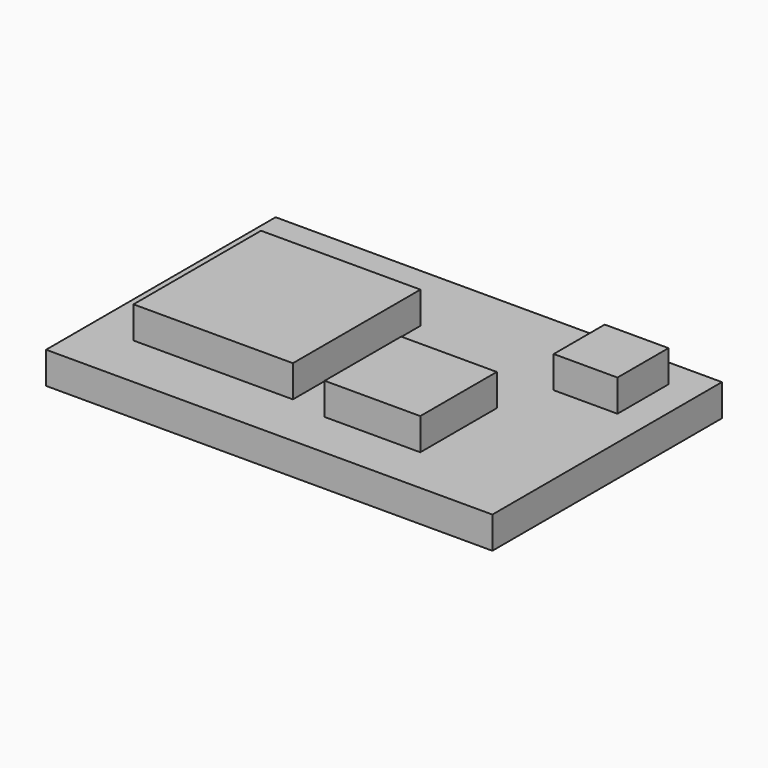
from build123d import *

# Parameters (mm, degrees)
F0_W     = 35.56
F0_H     = 22.86
F1_DEPTH = 2.54
F2_W     = 5.08
F2_H     = 5.08
F2_W_2   = 7.62
F2_H_2   = 7.62
F2_W_3   = 12.7
F2_H_3   = 12.7
F3_DEPTH = 2.54


with BuildPart() as f1:
    # F0 (on Top) → F1 (new body)
    with BuildSketch(Plane.XY):
        with Locations((13.568437, -8.192946)):
            Rectangle(F0_W, F0_H)
    extrude(amount=F1_DEPTH)


with BuildPart() as f3:
    # F2 (on face) → F3 (new body)
    with BuildSketch(Plane.XY.offset(2.54)):
        with Locations((26.400868, -1.615336)):
            Rectangle(F2_W, F2_H)
        with Locations((18.793753, -12.064112)):
            Rectangle(F2_W_2, F2_H_2)
        with Locations((5.613893, -8.910249)):
            Rectangle(F2_W_3, F2_H_3)
    extrude(amount=F3_DEPTH)


solid = Compound([f1.part, f3.part])
